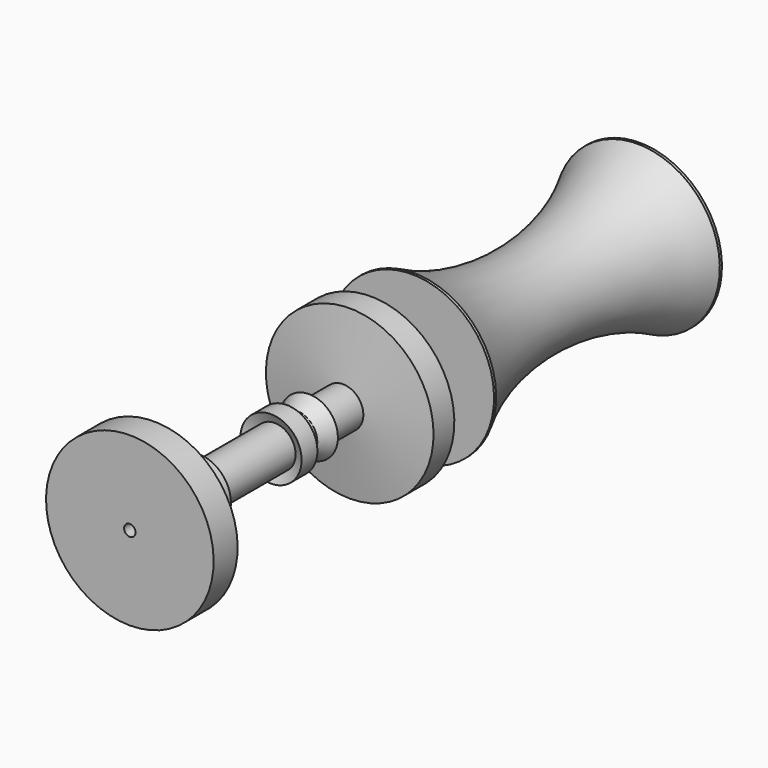
from build123d import *


with BuildPart() as f1:
    # F0 (on Right) → F1 (revolve)
    with BuildSketch(Plane.YZ):
        Polygon((-32.094423, 20.505153), (-32.094423, 0), (-24.224635, 0), (-24.224635, 7.289845), (-28.976208, 5.804979), (-28.976208, 13.526282), (-9.524463, 13.526282), (-12.345708, 16.496014), (15.421285, 16.496014), (14.233393, 13.971742), (19.430423, 13.971742), (19.430423, 16.496014), (22.548644, 16.496014), (26.706267, 14.417202), (28.785078, 16.6445), (37.842762, 16.6445), (40.070061, 0), (46.90044, 0), (46.90044, 20.505153), align=None)
        with BuildLine():
            ThreePointArc((61.113427, 0.385497), (97.811922, 9.724847), (134.510418, 0.385497))
            Line((134.510418, 0.385497), (135.210066, 0.385497))
            Line((135.210066, 0.385497), (135.210066, 22.002673))
            Line((135.210066, 22.002673), (60.413779, 22.002673))
            Line((60.413779, 22.002673), (60.413779, 0.385497))
            Line((60.413779, 0.385497), (61.113427, 0.385497))
        make_face()
    revolve(axis=Axis((0, 97.811922, 22.002673), (0, 1, 0)))


solid = f1.part
